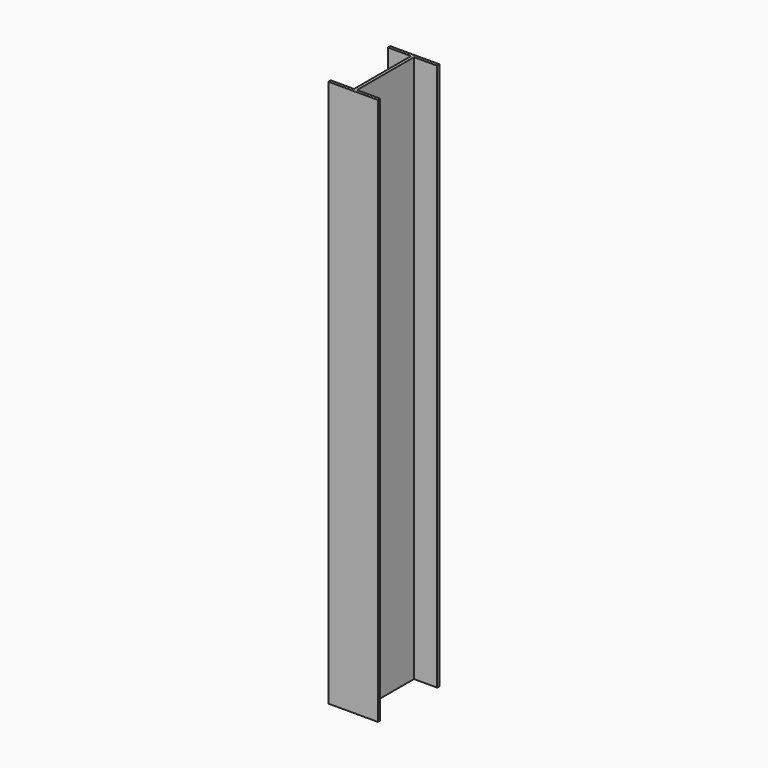
from build123d import *

# Parameters (mm, degrees)
F1_DEPTH      = 107
F1_DEPTH_BACK = 1000


with BuildPart() as f1:
    # F0 (on Top) → F1 (new body, two sides)
    with BuildSketch(Plane.XY) as f1_sk:
        Polygon((52.039473, 88.223688), (-47.960527, 88.223688), (-47.960527, 82.223688), (-0.960527, 82.223688), (-0.960527, -61.776312), (-47.960527, -61.776312), (-47.960527, -67.776312), (52.039473, -67.776312), (52.039473, -61.776312), (5.039473, -61.776312), (5.039473, 82.223688), (52.039473, 82.223688), align=None)
    extrude(amount=F1_DEPTH)
    extrude(f1_sk.sketch, amount=-F1_DEPTH_BACK)


solid = f1.part
